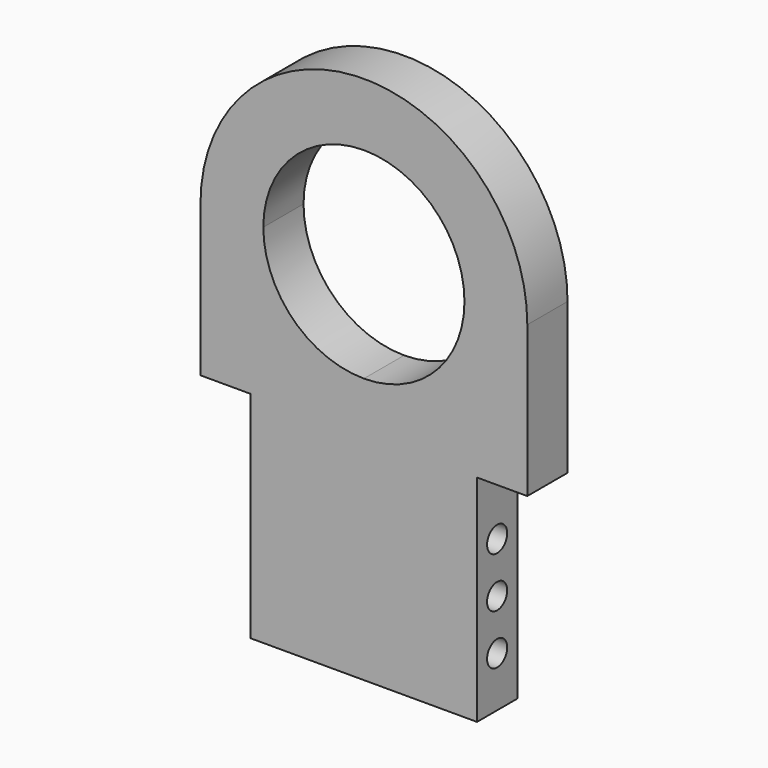
from build123d import *

# Parameters (mm, degrees)
F1_DEPTH = 2.54
F3_D     = 1.27
F3_DEPTH = 25.4


with BuildPart() as f1:
    # F0 (on Front) → F1 (new body)
    with BuildSketch(Plane.XZ):
        with BuildLine():
            ThreePointArc((-17.815945, 9.008229), (-12.735945, 14.088229), (-7.655945, 9.008229))
            Line((-7.655945, 9.008229), (-7.020945, 9.008229))
            Line((-7.020945, 9.008229), (-4.480945, 9.008229))
            ThreePointArc((-4.480945, 9.008229), (-12.735945, 17.263229), (-20.990945, 9.008229))
            Line((-20.990945, 9.008229), (-18.450945, 9.008229))
            Line((-18.450945, 9.008229), (-17.815945, 9.008229))
        make_face()
        with BuildLine():
            Line((-7.020945, 9.008229), (-7.655945, 9.008229))
            ThreePointArc((-7.655945, 9.008229), (-9.143842, 5.416126), (-12.735945, 3.928229))
            Line((-12.735945, 3.928229), (-12.735945, 1.388229))
            Line((-12.735945, 1.388229), (-7.1747, 1.388229))
            Line((-7.1747, 1.388229), (-7.020945, 1.388229))
            Line((-7.020945, 1.388229), (-4.480945, 1.388229))
            Line((-4.480945, 1.388229), (-4.480945, 9.008229))
            Line((-4.480945, 9.008229), (-7.020945, 9.008229))
        make_face()
        with BuildLine():
            ThreePointArc((-12.735945, 3.928229), (-16.328047, 5.416126), (-17.815945, 9.008229))
            Line((-17.815945, 9.008229), (-18.450945, 9.008229))
            Line((-18.450945, 9.008229), (-20.990945, 9.008229))
            Line((-20.990945, 9.008229), (-20.990945, 1.388229))
            Line((-20.990945, 1.388229), (-18.450945, 1.388229))
            Line((-18.450945, 1.388229), (-17.180945, 1.388229))
            Line((-17.180945, 1.388229), (-12.735945, 1.388229))
            Line((-12.735945, 1.388229), (-12.735945, 3.928229))
        make_face()
        Polygon((-12.735945, -1.860431), (-12.735945, 1.388229), (-17.180945, 1.388229), (-18.450945, 1.388229), (-18.450945, -9.480431), (-12.735945, -9.480431), align=None)
        Polygon((-7.1747, 1.388229), (-12.735945, 1.388229), (-12.735945, -1.860431), (-12.735945, -9.480431), (-7.020945, -9.480431), (-7.020945, 1.388229), align=None)
    extrude(amount=F1_DEPTH)

    # F3
    with Locations(Plane(origin=(-18.450945, 0, 0), x_dir=(0, -1, 0), z_dir=(-1, 0, 0))):
        with Locations((1.27, -1.860431), (1.27, -4.400431), (1.27, -6.940431)):
            Hole(F3_D / 2, depth=F3_DEPTH)


solid = f1.part
